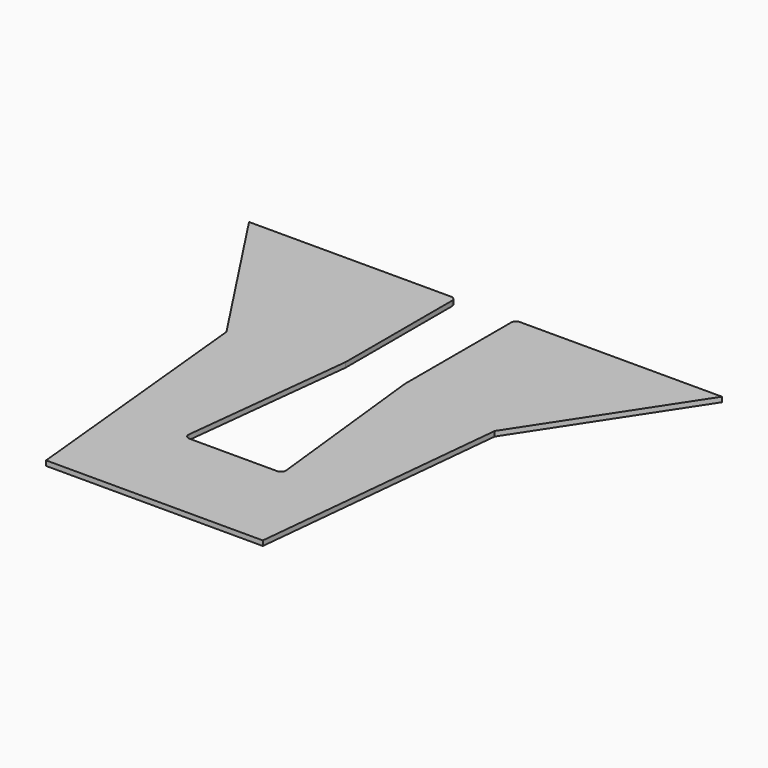
from build123d import *

# Parameters (mm, degrees)
F1_DEPTH = 6.35


with BuildPart() as f1:
    # F0 (on Top) → F1 (new body)
    with BuildSketch(Plane.XY):
        with BuildLine():
            Line((-139.7, 0), (0, 0))
            Line((0, 0), (139.7, 0))
            Line((139.7, 0), (172.915385, 332.153846))
            Line((172.915385, 332.153846), (304.8, 533.400002))
            Line((304.8, 533.400002), (44.45, 533.400002))
            ThreePointArc((44.45, 533.400002), (39.959872, 531.54013), (38.1, 527.050002))
            Line((38.1, 527.050002), (38.1, 355.6))
            Line((38.1, 355.6), (62.716529, 134.05124))
            ThreePointArc((62.716529, 134.05124), (61.13693, 129.115049), (56.405367, 127))
            Line((56.405367, 127), (0, 127))
            Line((0, 127), (-56.405367, 127))
            ThreePointArc((-56.405367, 127), (-61.13693, 129.115049), (-62.716529, 134.05124))
            Line((-62.716529, 134.05124), (-38.1, 355.6))
            Line((-38.1, 355.6), (-38.1, 527.048046))
            ThreePointArc((-38.1, 527.048046), (-39.959872, 531.538174), (-44.45, 533.398046))
            Line((-44.45, 533.398046), (-304.8, 533.398046))
            Line((-304.8, 533.398046), (-172.915385, 332.153846))
            Line((-172.915385, 332.153846), (-139.7, 0))
        make_face()
    extrude(amount=F1_DEPTH)


solid = f1.part
